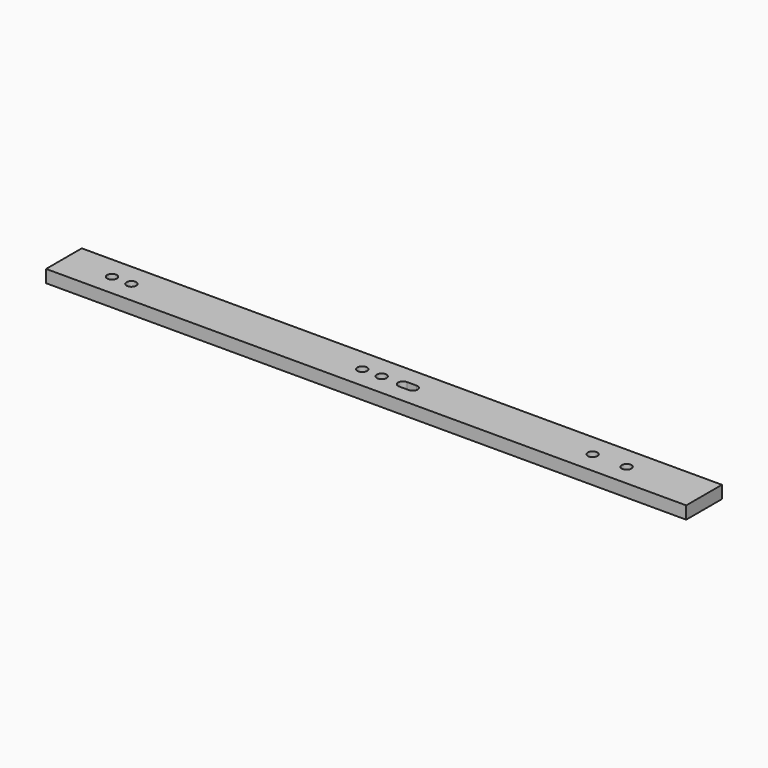
from build123d import *

# Parameters (mm, degrees)
SKETCH_W     = 330
SKETCH_H     = 23
PAD_DEPTH    = 6.5
SKETCH001_R  = 2.5
POCKET_DEPTH = 6.501


with BuildPart() as part:
    # Sketch → Pad (new body)
    with BuildSketch(Plane.XY):
        with Locations((165, 11.5)):
            Rectangle(SKETCH_W, SKETCH_H)
    extrude(amount=PAD_DEPTH)

    # Sketch001 (on Face6 of Pad) → Pocket (cut, through all)
    with BuildSketch(Plane.XY.offset(6.5)):
        with Locations((25, 11.25)):
            Circle(SKETCH001_R)
        with Locations((35, 11.25)):
            Circle(SKETCH001_R)
        with Locations((154, 11.25)):
            Circle(SKETCH001_R)
        with Locations((164, 11.25)):
            Circle(SKETCH001_R)
        with Locations((272.722137, 11.25)):
            Circle(SKETCH001_R)
        with Locations((290.250244, 11.25)):
            Circle(SKETCH001_R)
        with BuildLine():
            ThreePointArc((175, 13.75), (172.5, 11.25), (175, 8.75))
            Line((175, 8.75), (180, 8.75))
            ThreePointArc((180, 8.75), (182.5, 11.25), (180, 13.75))
            Line((175, 13.75), (180, 13.75))
        make_face()
    extrude(amount=-POCKET_DEPTH, mode=Mode.SUBTRACT)


solid = part.part
